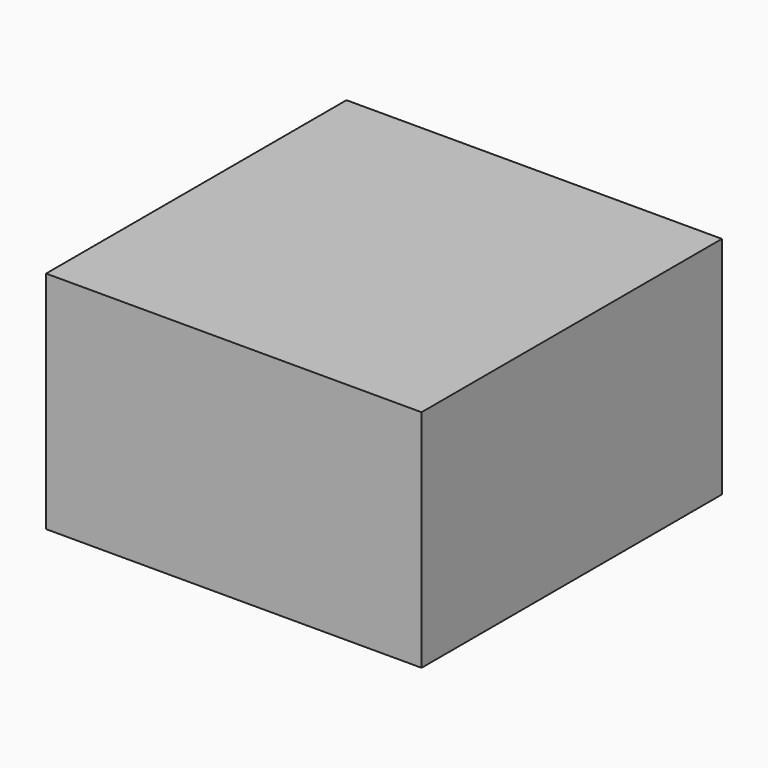
from build123d import *

# Parameters (mm, degrees)
F1_DEPTH = 12.7


with BuildPart() as f1:
    # F0 (on Top) → F1 (new body, symmetric)
    with BuildSketch(Plane.XY):
        Polygon((0, 21.190327), (21.190327, 0), (21.190327, 21.190327), align=None)
        Polygon((-21.190327, 0), (0, -21.190327), (21.190327, 0), (0, 21.190327), align=None)
        Polygon((-21.190327, -21.190327), (0, -21.190327), (-21.190327, 0), align=None)
        Polygon((0, -21.190327), (21.190327, -21.190327), (21.190327, 0), align=None)
        Polygon((-21.190327, 21.190327), (-21.190327, 0), (0, 21.190327), align=None)
    extrude(amount=F1_DEPTH, both=True)


solid = f1.part
